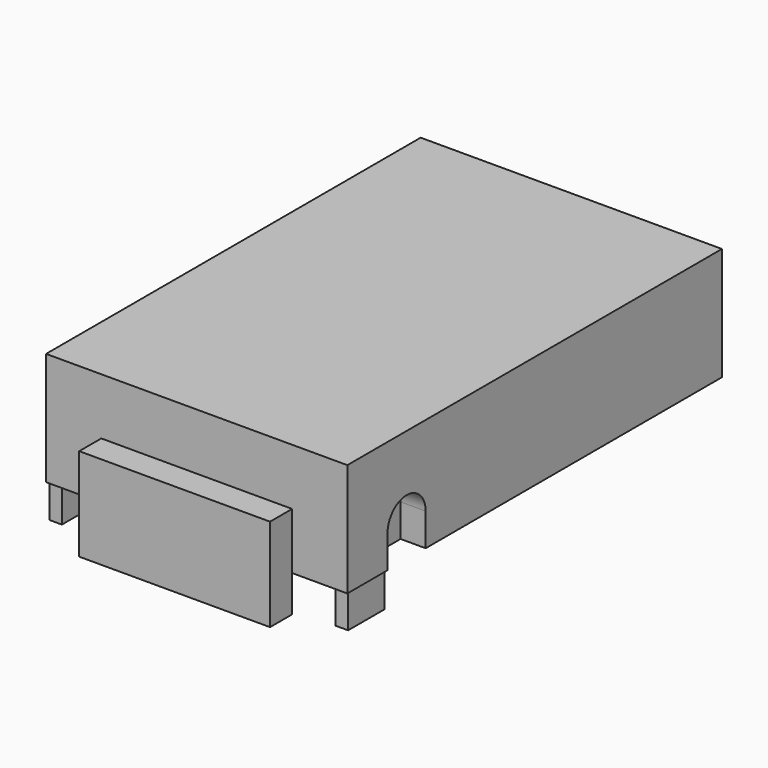
from build123d import *

# Parameters (mm, degrees)
SKETCH006_W     = 12
SKETCH006_H     = 18.65
PAD002_DEPTH    = 2.25
SKETCH007_W     = 7.6
SKETCH007_H     = 3.7
PAD003_DEPTH    = 1.1
SKETCH008_W     = 0.5
SKETCH008_H     = 1.8
PAD004_DEPTH    = 1.35
POCKET003_DEPTH = 1


with BuildPart() as part:
    # Sketch006 → Pad002 (new body, symmetric)
    with BuildSketch(Plane.XY):
        with Locations((0, -0.325)):
            Rectangle(SKETCH006_W, SKETCH006_H)
    extrude(amount=PAD002_DEPTH, both=True)

    # Sketch007 (on Face3 of Pad002) → Pad003 (join)
    with BuildSketch(Plane.XZ.offset(9.65)):
        with Locations((0, -1.85)):
            Rectangle(SKETCH007_W, SKETCH007_H)
    extrude(amount=PAD003_DEPTH)

    # Sketch008 (on Face4 of Pad003) → Pad004 (join)
    with BuildSketch(Plane(origin=(0, 0, -2.25), x_dir=(1, 0, 0), z_dir=(0, 0, -1))):
        with Locations((-5.7, 8.65)):
            Rectangle(SKETCH008_W, SKETCH008_H)
    pad004 = extrude(amount=PAD004_DEPTH)

    # Mirrored: Pad004 across Sketch008 V_Axis
    add(pad004.mirror(Plane(origin=(0, 0, -2.25), x_dir=(0, 0, -1), z_dir=(1, 0, 0))))

    # Sketch009 (on Face3 of Mirrored) → Pocket003 (cut)
    with BuildSketch(Plane.YZ.offset(6)):
        with BuildLine():
            ThreePointArc((-5.75, -0.95), (-6.7, 0), (-7.65, -0.95))
            Line((-7.65, -2.95), (-7.65, -0.95))
            Line((-5.75, -2.95), (-7.65, -2.95))
            Line((-5.75, -0.95), (-5.75, -2.95))
        make_face()
    pocket003 = extrude(amount=-POCKET003_DEPTH, mode=Mode.SUBTRACT)

    # Mirrored001: Pocket003 across YZ
    add(pocket003.mirror(Plane.YZ), mode=Mode.SUBTRACT)


solid = part.part
